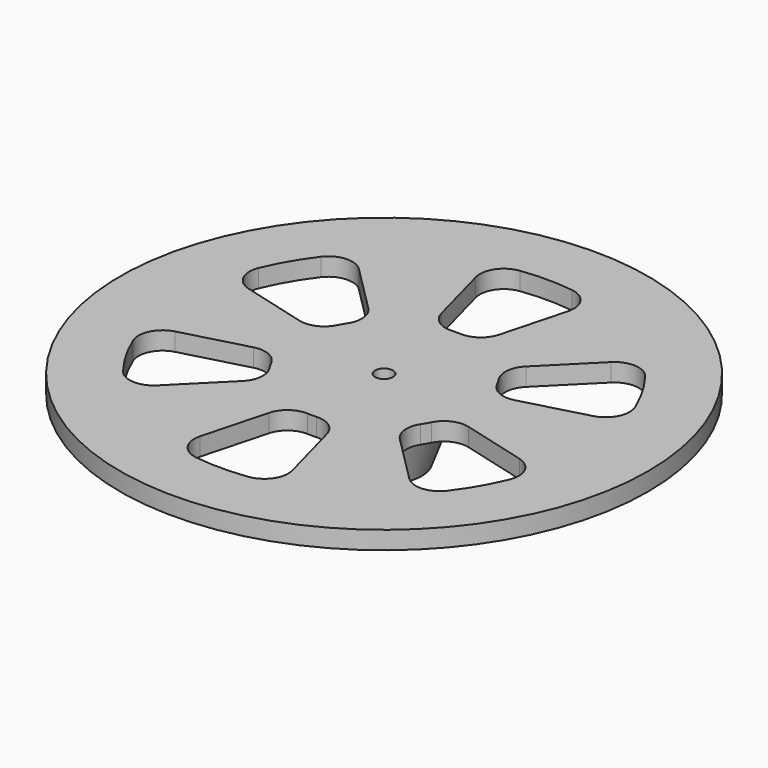
from build123d import *

# Parameters (mm, degrees)
F0_R     = 6.25
F1_DEPTH = 10
F1_TAPER = -20
F2_R     = 3.25
F3_DEPTH = 7.6
F6_R     = 44
F6_R_2   = 9.8897023427
F6_R_3   = 1.5
F7_DEPTH = 3
F8_R     = 4
F9_DEPTH = 25


with BuildPart() as f1:
    # F0 (on Top) → F1 (new body)
    with BuildSketch(Plane.XY):
        Circle(F0_R)
    extrude(amount=F1_DEPTH, taper=F1_TAPER)

    # F2 (on face) → F3 (cut)
    with BuildSketch(Plane(origin=(0, 0, 0), x_dir=(1, 0, 0), z_dir=(0, 0, -1))):
        Circle(F2_R)
    extrude(amount=-F3_DEPTH, mode=Mode.SUBTRACT)

    # F4 (on Front) → F5 (revolve, cut)
    with BuildSketch(Plane.XZ):
        with BuildLine():
            Line((0, 0), (0, 1.3641098567))
            ThreePointArc((0, 1.3641098567), (-3.198565917, 1.0191150111), (-6.25, 0))
            Line((-6.25, 0), (0, 0))
        make_face()
    revolve(axis=Axis((0, 0, -13.6358901433), (0, 0, -1)), mode=Mode.SUBTRACT)

    # F6 (on face) → F7 (join)
    with BuildSketch(Plane.XY.offset(10)):
        Circle(F6_R)
        with BuildLine():
            Line((-32.8414780938, -8.7998475335), (-14.4888873943, -3.8822856765))
            ThreePointArc((-14.4888873943, -3.8822856765), (-12.9903810568, -7.5), (-10.6066017178, -10.6066017178))
            Line((-10.6066017178, -10.6066017178), (-24.0416305603, -24.0416305603))
            ThreePointArc((-24.0416305603, -24.0416305603), (-29.4448637287, -17), (-32.8414780938, -8.7998475335))
        make_face(mode=Mode.SUBTRACT)
        with BuildLine():
            Line((-8.7998475335, -32.8414780938), (-3.8822856765, -14.4888873943))
            ThreePointArc((-3.8822856765, -14.4888873943), (0, -15), (3.8822856765, -14.4888873943))
            Line((3.8822856765, -14.4888873943), (8.7998475335, -32.8414780938))
            ThreePointArc((8.7998475335, -32.8414780938), (0, -34), (-8.7998475335, -32.8414780938))
        make_face(mode=Mode.SUBTRACT)
        with BuildLine():
            Line((24.0416305603, -24.0416305603), (10.6066017178, -10.6066017178))
            ThreePointArc((10.6066017178, -10.6066017178), (12.9903810568, -7.5), (14.4888873943, -3.8822856765))
            Line((14.4888873943, -3.8822856765), (32.8414780938, -8.7998475335))
            ThreePointArc((32.8414780938, -8.7998475335), (29.4448637287, -17), (24.0416305603, -24.0416305603))
        make_face(mode=Mode.SUBTRACT)
        with BuildLine():
            Line((-24.0416305603, 24.0416305603), (-10.6066017178, 10.6066017178))
            ThreePointArc((-10.6066017178, 10.6066017178), (-12.9903810568, 7.5), (-14.4888873943, 3.8822856765))
            Line((-14.4888873943, 3.8822856765), (-32.8414780938, 8.7998475335))
            ThreePointArc((-32.8414780938, 8.7998475335), (-29.4448637287, 17), (-24.0416305603, 24.0416305603))
        make_face(mode=Mode.SUBTRACT)
        Circle(F6_R_2, mode=Mode.SUBTRACT)
        with BuildLine():
            Line((32.8414780938, 8.7998475335), (14.4888873943, 3.8822856765))
            ThreePointArc((14.4888873943, 3.8822856765), (12.9903810568, 7.5), (10.6066017178, 10.6066017178))
            Line((10.6066017178, 10.6066017178), (24.0416305603, 24.0416305603))
            ThreePointArc((24.0416305603, 24.0416305603), (29.4448637287, 17), (32.8414780938, 8.7998475335))
        make_face(mode=Mode.SUBTRACT)
        with BuildLine():
            ThreePointArc((3.8822856765, 14.4888873943), (0, 15), (-3.8822856765, 14.4888873943))
            Line((-3.8822856765, 14.4888873943), (-8.7998475335, 32.8414780938))
            ThreePointArc((-8.7998475335, 32.8414780938), (0, 34), (8.7998475335, 32.8414780938))
            Line((8.7998475335, 32.8414780938), (3.8822856765, 14.4888873943))
        make_face(mode=Mode.SUBTRACT)
        Circle(F6_R_2)
        Circle(F6_R_3, mode=Mode.SUBTRACT)
    extrude(amount=F7_DEPTH)

    # F8
    f8_edges = [f1.edges().sort_by_distance(p)[0] for p in [
        (-9.889702, 0, 10),
        (-10.606602, -10.606602, 11.5),
        (-14.488887, -3.882286, 11.5),
        (-32.841478, -8.799848, 11.5),
        (-24.041631, -24.041631, 11.5),
        (8.799848, -32.841478, 11.5),
        (3.882286, -14.488887, 11.5),
        (-8.799848, 32.841478, 11.5),
        (-24.041631, 24.041631, 11.5),
        (-10.606602, 10.606602, 11.5),
        (32.841478, -8.799848, 11.5),
        (14.488887, -3.882286, 11.5),
        (10.606602, 10.606602, 11.5),
        (-3.882286, -14.488887, 11.5),
        (10.606602, -10.606602, 11.5),
        (24.041631, -24.041631, 11.5),
        (32.841478, 8.799848, 11.5),
        (14.488887, 3.882286, 11.5),
        (3.882286, 14.488887, 11.5),
        (-8.799848, -32.841478, 11.5),
        (-32.841478, 8.799848, 11.5),
        (-14.488887, 3.882286, 11.5),
        (-3.882286, 14.488887, 11.5),
        (8.799848, 32.841478, 11.5),
        (24.041631, 24.041631, 11.5),
    ]]
    fillet(f8_edges, radius=F8_R)

    # F9 (cut): a face of the model
    f9_faces = [f1.faces().sort_by_distance(p)[0] for p in [
        (0, 0, 10),
    ]]
    extrude(f9_faces, amount=-F9_DEPTH, mode=Mode.SUBTRACT)


solid = f1.part
